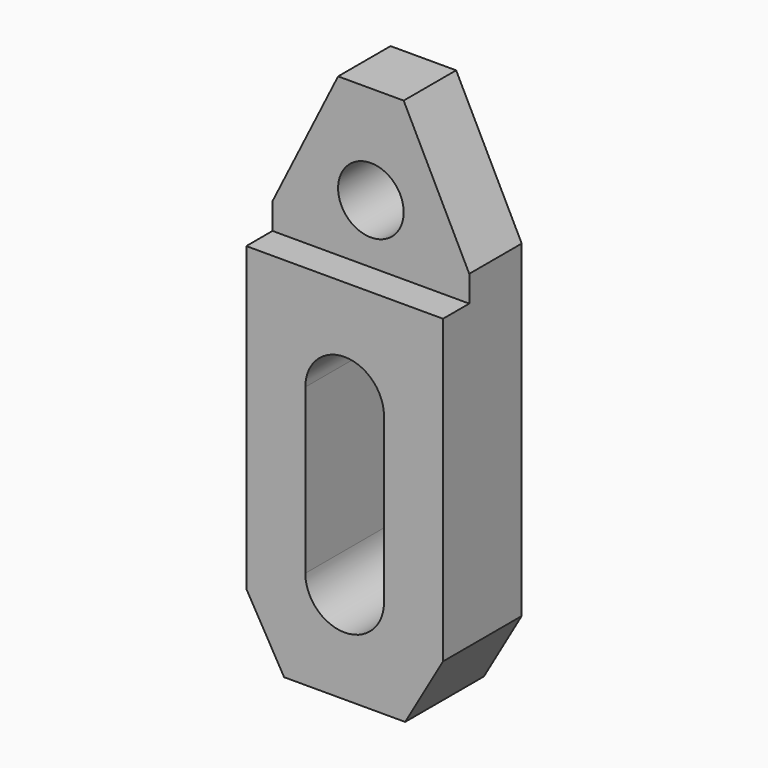
from build123d import *

# Parameters (mm, degrees)
F1_DEPTH = 15
F0_R     = 5
F2_DEPTH = 10


with BuildPart() as f1:
    # F0 (on Front) → F1 (new body)
    with BuildSketch(Plane.XZ):
        Polygon((7.823033, 16), (-22.176967, 16), (-22.176967, -30), (-16.403465, -40), (2.04953, -40), (7.823033, -30), align=None)
        with BuildLine():
            ThreePointArc((-1.176967, -25), (-7.176967, -31), (-13.176967, -25))
            Line((-13.176967, -25), (-13.176967, 0))
            ThreePointArc((-13.176967, 0), (-7.176967, 6), (-1.176967, 0))
            Line((-1.176967, 0), (-1.176967, -25))
        make_face(mode=Mode.SUBTRACT)
    extrude(amount=F1_DEPTH)

    # F0 (on Front) → F2 (join)
    with BuildSketch(Plane.XZ):
        Polygon((-22.176967, 20), (-22.176967, 16), (7.823033, 16), (7.823033, 20), (-2.176967, 40), (-12.176967, 40), align=None)
        with Locations((-7.176967, 25)):
            Circle(F0_R, mode=Mode.SUBTRACT)
    extrude(amount=F2_DEPTH)


solid = f1.part
